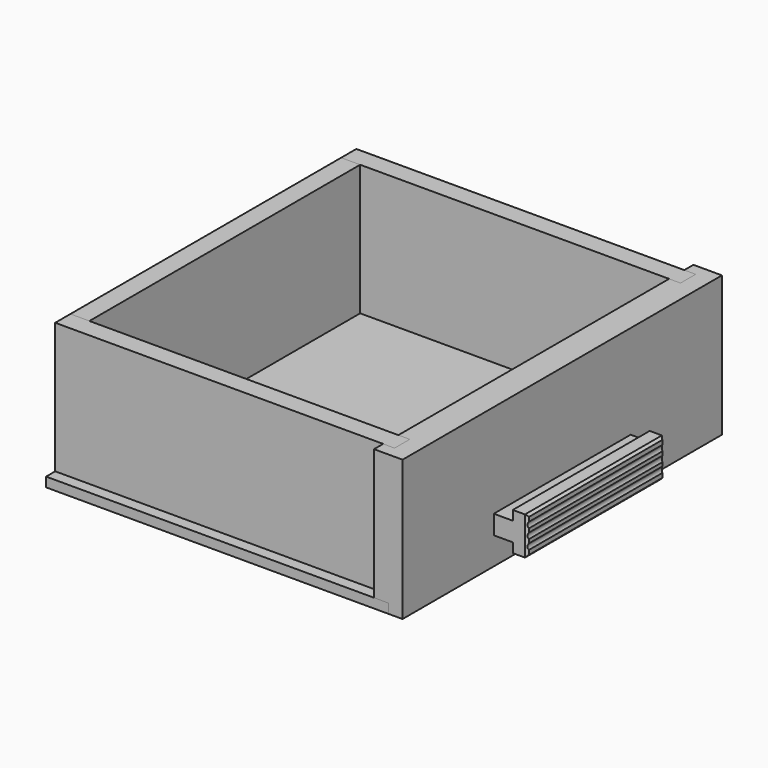
from build123d import *

# Parameters (mm, degrees)
F0_W      = 228.6
F0_H      = 266.7
F1_DEPTH  = 6.35
F2_W      = 266.7
F2_H      = 93.726
F3_DEPTH  = 9.525
F4_W      = 12.7
F4_H      = 87.376
F5_DEPTH  = 7.62
F6_W      = 9.525
F6_H      = 6.35
F7_DEPTH  = 266.701
F8_DEPTH  = 226.695
F9_W      = 226.06
F9_H      = 87.376
F10_DEPTH = 12.7
F12_W     = 12.7
F12_H     = 12.7
F13_DEPTH = 114.3
F14_SIZE  = 1.524
F16_DEPTH = 190.501


with BuildPart() as f1:
    # F0 (on Top) → F1 (new body)
    with BuildSketch(Plane.XY):
        Rectangle(F0_W, F0_H)
    extrude(amount=F1_DEPTH)


with BuildPart() as f3:
    # F2 (on face) → F3 (new body, symmetric)
    with BuildSketch(Plane.YZ.offset(114.3)):
        with Locations((0, 46.863)):
            Rectangle(F2_W, F2_H)
    extrude(amount=F3_DEPTH, both=True)

    # F4 (on face) → F5 (cut)
    with BuildSketch(Plane(origin=(104.775, 0, 0), x_dir=(0, -1, 0), z_dir=(-1, 0, 0))):
        with Locations((-119.38, 50.038)):
            Rectangle(F4_W, F4_H)
        with Locations((119.38, 50.038)):
            Rectangle(F4_W, F4_H)
    extrude(amount=-F5_DEPTH, mode=Mode.SUBTRACT)

    # F6 (on face) → F7 (cut, through all)
    with BuildSketch(Plane(origin=(0, 133.35, 0), x_dir=(-1, 0, 0), z_dir=(0, 1, 0))):
        with Locations((-109.5375, 3.175)):
            Rectangle(F6_W, F6_H)
    extrude(amount=-F7_DEPTH, mode=Mode.SUBTRACT)


with BuildPart() as f8:
    # F8 (new, through all): a face of the model
    f8_faces = [f3.part.faces().sort_by_distance(p)[0] for p in [
        (112.395, 119.38, 50.038),
    ]]
    extrude(f8_faces, amount=F8_DEPTH)


with BuildPart() as f8b:
    # F8#2 (new, through all): a face of the model
    f8_2_faces = [f3.part.faces().sort_by_distance(p)[0] for p in [
        (112.395, -119.38, 50.038),
    ]]
    extrude(f8_2_faces, amount=F8_DEPTH)


with BuildPart() as f10:
    # F9 (on face) → F10 (new body)
    with BuildSketch(Plane(origin=(-114.3, 0, 0), x_dir=(0, -1, 0), z_dir=(-1, 0, 0))):
        with Locations((0, 50.038)):
            Rectangle(F9_W, F9_H)
    extrude(amount=-F10_DEPTH)


with BuildPart() as f13:
    # F12 (on offset) → F13 (new body)
    with BuildSketch(Plane.XZ.offset(57.15)):
        with Locations((130.175, 24.638)):
            Rectangle(F12_W, F12_H)
        Polygon((136.525, 37.338), (136.525, 30.988), (136.525, 18.288), (136.525, 11.938), (146.177, 11.938), (146.177, 37.338), align=None)
    extrude(amount=-F13_DEPTH)

    # F14
    f14_edges = [f13.edges().sort_by_distance(p)[0] for p in [
        (146.177, 0, 11.938),
        (146.177, 0, 37.338),
        (146.177, -57.15, 24.638),
        (146.177, 57.15, 24.638),
    ]]
    chamfer(f14_edges, length=F14_SIZE)

    # F15 (on face) → F16 (cut, through all)
    with BuildSketch(Plane.XZ.offset(57.15)):
        with BuildLine():
            ThreePointArc((151.892, 30.988), (149.7210231571, 34.0000694713), (146.177, 32.893))
            Line((146.177, 32.893), (146.177, 29.083))
            ThreePointArc((146.177, 29.083), (147.2970968343, 28.1481936686), (148.717, 27.813))
            ThreePointArc((148.717, 27.813), (150.9620640303, 28.7429359697), (151.892, 30.988))
        make_face()
        with BuildLine():
            Line((146.177, 29.083), (146.177, 32.893))
            ThreePointArc((146.177, 32.893), (145.542, 30.988), (146.177, 29.083))
        make_face()
        with BuildLine():
            ThreePointArc((148.717, 27.813), (147.2970968343, 28.1481936686), (146.177, 29.083))
            Line((146.177, 29.083), (146.177, 26.543))
            ThreePointArc((146.177, 26.543), (147.2970968343, 27.4778063314), (148.717, 27.813))
        make_face()
        with BuildLine():
            ThreePointArc((148.717, 27.813), (147.2970968343, 27.4778063314), (146.177, 26.543))
            Line((146.177, 26.543), (146.177, 22.733))
            ThreePointArc((146.177, 22.733), (147.2970968343, 21.7981936686), (148.717, 21.463))
            ThreePointArc((148.717, 21.463), (150.9620640303, 22.3929359697), (151.892, 24.638))
            ThreePointArc((151.892, 24.638), (150.9620640303, 26.8830640303), (148.717, 27.813))
        make_face()
        with BuildLine():
            Line((146.177, 22.733), (146.177, 26.543))
            ThreePointArc((146.177, 26.543), (145.542, 24.638), (146.177, 22.733))
        make_face()
        with BuildLine():
            ThreePointArc((148.717, 21.463), (147.2970968343, 21.7981936686), (146.177, 22.733))
            Line((146.177, 22.733), (146.177, 20.193))
            ThreePointArc((146.177, 20.193), (147.2970968343, 21.1278063314), (148.717, 21.463))
        make_face()
        with BuildLine():
            ThreePointArc((148.717, 21.463), (147.2970968343, 21.1278063314), (146.177, 20.193))
            Line((146.177, 20.193), (146.177, 16.383))
            ThreePointArc((146.177, 16.383), (149.7210231571, 15.2759305287), (151.892, 18.288))
            ThreePointArc((151.892, 18.288), (150.9620640303, 20.5330640303), (148.717, 21.463))
        make_face()
        with BuildLine():
            Line((146.177, 16.383), (146.177, 20.193))
            ThreePointArc((146.177, 20.193), (145.542, 18.288), (146.177, 16.383))
        make_face()
    extrude(amount=-F16_DEPTH, mode=Mode.SUBTRACT)


solid = Compound([f1.part, f3.part, f8.part, f8b.part, f10.part, f13.part])
